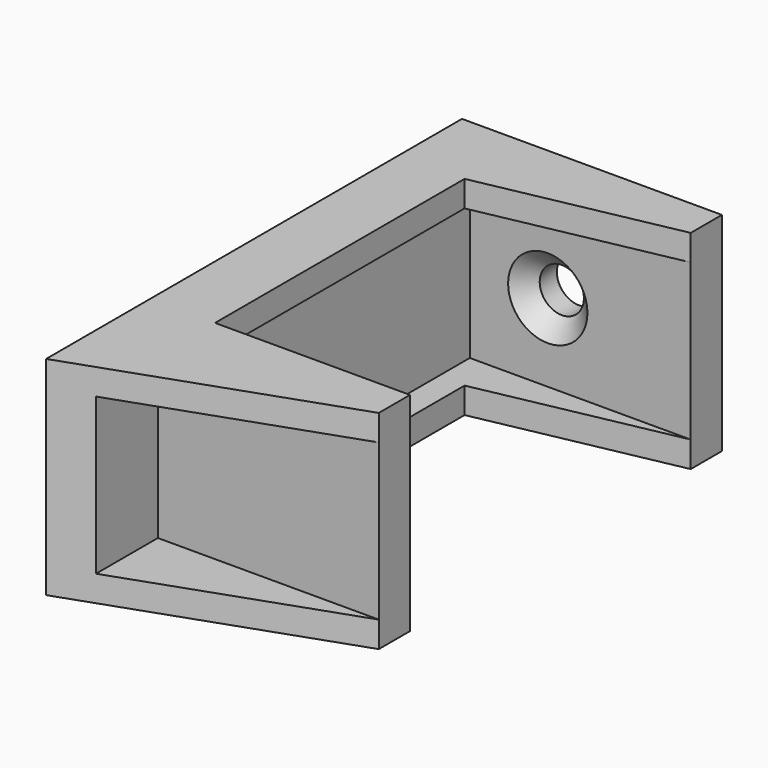
from build123d import *

# Parameters (mm, degrees)
PAD_DEPTH        = 16
SKETCH001_W      = 27
SKETCH001_H      = 12
SKETCH001_W_2    = 7
POCKET_DEPTH     = 17
HOLE_D           = 3.4
HOLE_DEPTH       = 25
HOLE_CSINK_D     = 6.1
HOLE_CSINK_ANGLE = 90


with BuildPart() as part:
    # Sketch → Pad (new body)
    with BuildSketch(Plane.XY):
        Polygon((-10, -10), (10, -3), (10, 0), (-5, 0), (-5, 24), (10, 27), (10, 30), (-10, 30), align=None)
    extrude(amount=PAD_DEPTH)

    # Sketch001 (on Face6 of Pad) → Pocket (cut)
    with BuildSketch(Plane.YZ.offset(10)):
        with Locations((13.5, 8)):
            Rectangle(SKETCH001_W, SKETCH001_H)
        with Locations((-6.5, 8)):
            Rectangle(SKETCH001_W_2, SKETCH001_H)
    extrude(amount=-POCKET_DEPTH, mode=Mode.SUBTRACT)

    # Hole
    with Locations(Plane.XZ.offset(-27)):
        with Locations((-1, 8)):
            CounterSinkHole(HOLE_D / 2, HOLE_CSINK_D / 2, depth=HOLE_DEPTH, counter_sink_angle=HOLE_CSINK_ANGLE)


solid = part.part
